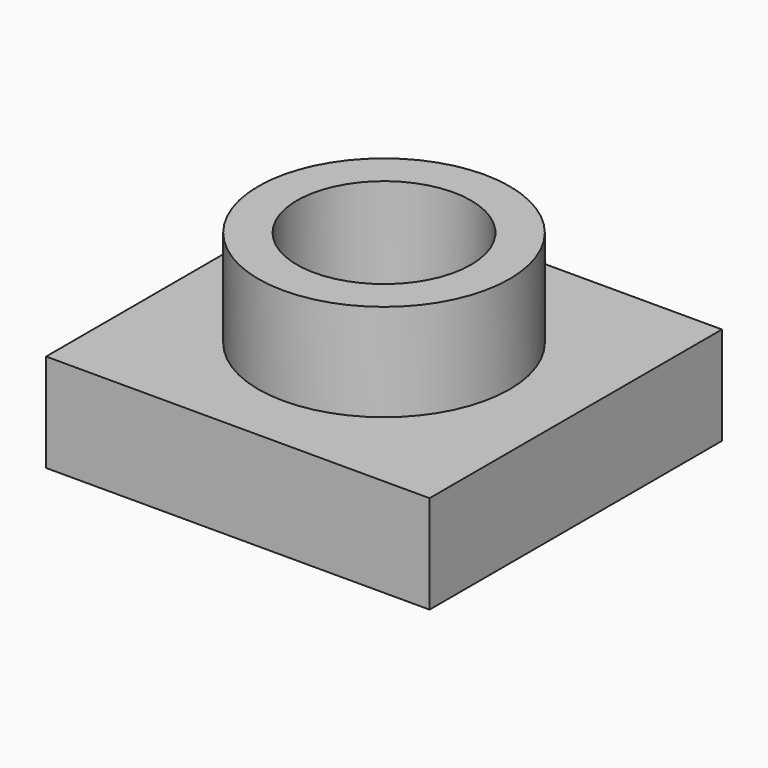
from build123d import *

# Parameters (mm, degrees)
F0_R     = 32.50515
F0_R_2   = 22.533146
F1_DEPTH = 50.546
F0_W     = 99.258498
F0_H     = 94.578132
F2_DEPTH = 25.4


with BuildPart() as f1:
    # F0 (on Top) → F1 (new body)
    with BuildSketch(Plane.XY):
        Circle(F0_R)
        Circle(F0_R_2, mode=Mode.SUBTRACT)
    extrude(amount=F1_DEPTH)

    # F0 (on Top) → F2 (join)
    with BuildSketch(Plane.XY):
        Rectangle(F0_W, F0_H)
        Circle(F0_R, mode=Mode.SUBTRACT)
    extrude(amount=F2_DEPTH)


solid = f1.part
